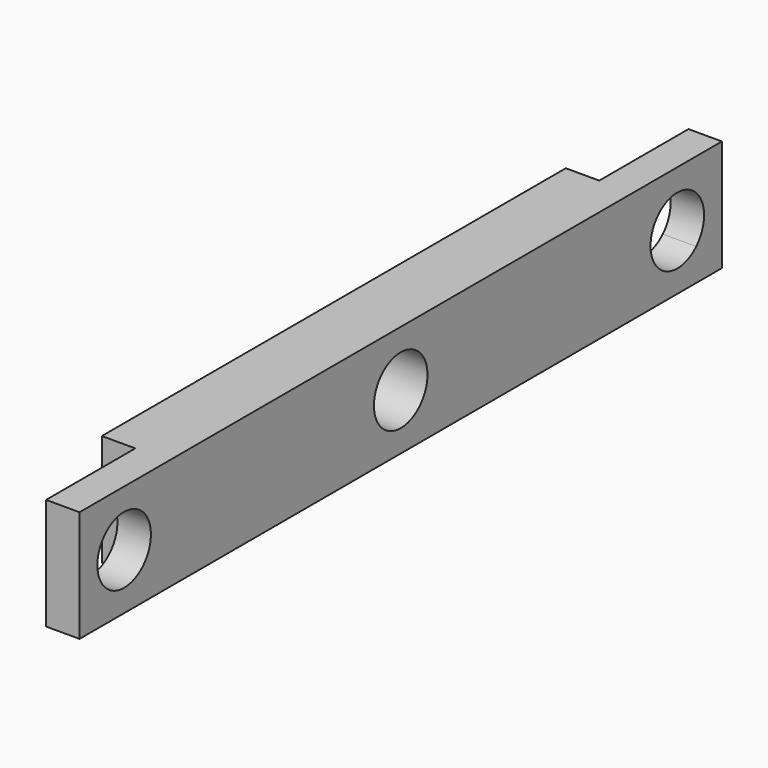
from build123d import *

# Parameters (mm, degrees)
F0_W     = 228.6
F0_H     = 31.75
F1_DEPTH = 19.05
F2_W     = 31.75
F2_H     = 31.75
F3_DEPTH = 9.525
F4_R     = 9.525
F5_DEPTH = 25.4
F6_R     = 9.525
F7_DEPTH = 25.4


with BuildPart() as f1:
    # F0 (on Right) → F1 (new body)
    with BuildSketch(Plane.YZ):
        Rectangle(F0_W, F0_H)
    extrude(amount=F1_DEPTH)

    # F2 (on face) → F3 (cut)
    with BuildSketch(Plane(origin=(0, 0, 0), x_dir=(0, -1, 0), z_dir=(-1, 0, 0))):
        with Locations((-98.425, 0)):
            Rectangle(F2_W, F2_H)
        with Locations((98.425, 0)):
            Rectangle(F2_W, F2_H)
    extrude(amount=-F3_DEPTH, mode=Mode.SUBTRACT)

    # F4 (on face) → F5 (cut)
    with BuildSketch(Plane(origin=(9.525, 0, 0), x_dir=(0, -1, 0), z_dir=(-1, 0, 0))):
        with BuildLine():
            ThreePointArc((-91.689808, 6.735192), (-105.160192, 6.735192), (-105.160192, -6.735192))
            Line((-105.160192, -6.735192), (-91.689808, 6.735192))
        make_face()
        with BuildLine():
            Line((-91.689808, 6.735192), (-105.160192, -6.735192))
            ThreePointArc((-105.160192, -6.735192), (-94.77994, -8.799953), (-88.9, 0))
            ThreePointArc((-88.9, 0), (-89.625047, 3.64506), (-91.689808, 6.735192))
        make_face()
        with Locations((98.425, 0)):
            Circle(F4_R)
    extrude(amount=-F5_DEPTH, mode=Mode.SUBTRACT)

    # F6 (on face) → F7 (cut)
    with BuildSketch(Plane(origin=(0, 0, 0), x_dir=(0, -1, 0), z_dir=(-1, 0, 0))):
        Circle(F6_R)
    extrude(amount=-F7_DEPTH, mode=Mode.SUBTRACT)


solid = f1.part
